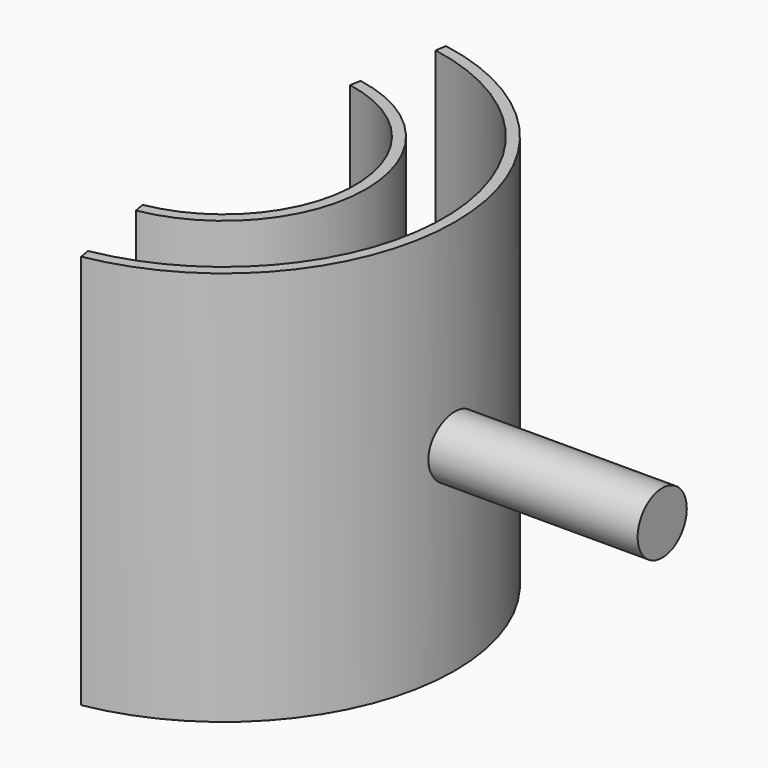
from build123d import *

# Parameters (mm, degrees)
PAD023_DEPTH = 18
SKETCH049_R  = 1.4
PAD024_DEPTH = 14
PAD025_DEPTH = 18


with BuildPart() as part:
    # Sketch046 → Pad023 (new body)
    with BuildSketch(Plane.XY.offset(8.5)):
        with BuildLine():
            ThreePointArc((1.041889, -5.908847), (6, 0), (1.041889, 5.908847))
            Line((1.128713, 6.40125), (1.041889, 5.908847))
            ThreePointArc((1.128713, -6.40125), (6.5, 0), (1.128713, 6.40125))
            Line((1.128713, -6.40125), (1.041889, -5.908847))
        make_face()
    extrude(amount=PAD023_DEPTH)

    # Sketch049 (on DatumPlane) → Pad024 (join)
    with BuildSketch(Plane(origin=(6, 0, 26.5), x_dir=(0, 1, 0), z_dir=(1, 0, 0))):
        with Locations((0, -9)):
            Circle(SKETCH049_R)
    extrude(amount=PAD024_DEPTH)

    # Sketch050 → Pad025 (join)
    with BuildSketch(Plane.XY.offset(8.5)):
        with BuildLine():
            ThreePointArc((1.745858, -9.90125), (10.053993, 0), (1.745858, 9.90125))
            Line((1.832682, 10.393654), (1.745858, 9.90125))
            ThreePointArc((1.832682, -10.393654), (10.553993, 0), (1.832682, 10.393654))
            Line((1.832682, -10.393654), (1.745858, -9.90125))
        make_face()
    extrude(amount=PAD025_DEPTH)


solid = part.part
